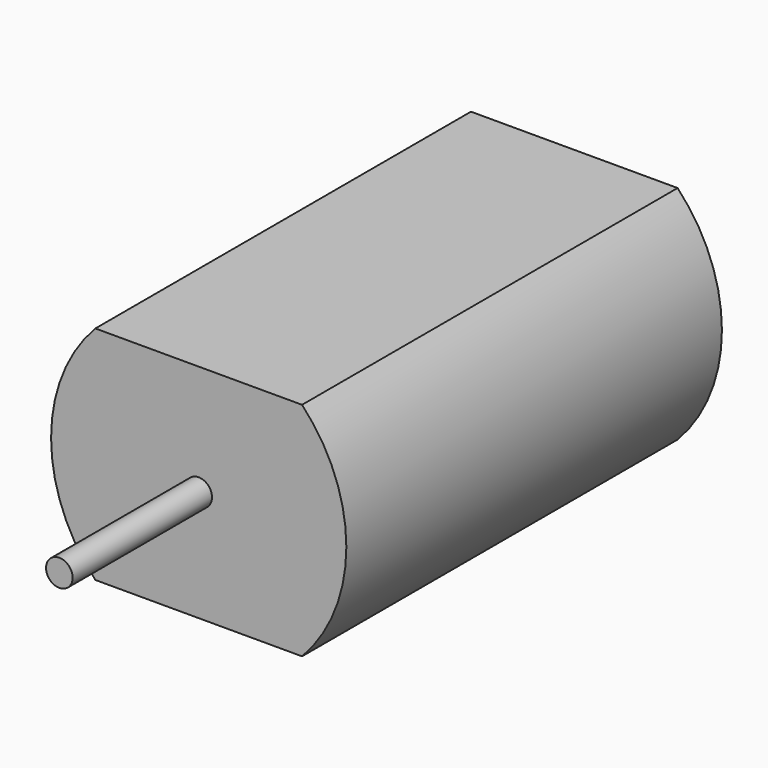
from build123d import *

# Parameters (mm, degrees)
PAD_DEPTH    = 31.8
SKETCH001_R  = 0.9
PAD001_DEPTH = 11.8


with BuildPart() as part:
    # Sketch → Pad (new body)
    with BuildSketch(Plane.XZ):
        with BuildLine():
            Line((0, 15), (14, 15))
            ThreePointArc((14, 0), (17, 7.5), (14, 15))
            Line((14, 0), (0, 0))
            ThreePointArc((0, 15), (-3, 7.5), (0, 0))
        make_face()
    extrude(amount=PAD_DEPTH)

    # Sketch001 (on Face6 of Pad) → Pad001 (join)
    with BuildSketch(Plane.XZ.offset(31.8)):
        with Locations((7, 7.5)):
            Circle(SKETCH001_R)
    extrude(amount=PAD001_DEPTH)


solid = part.part
